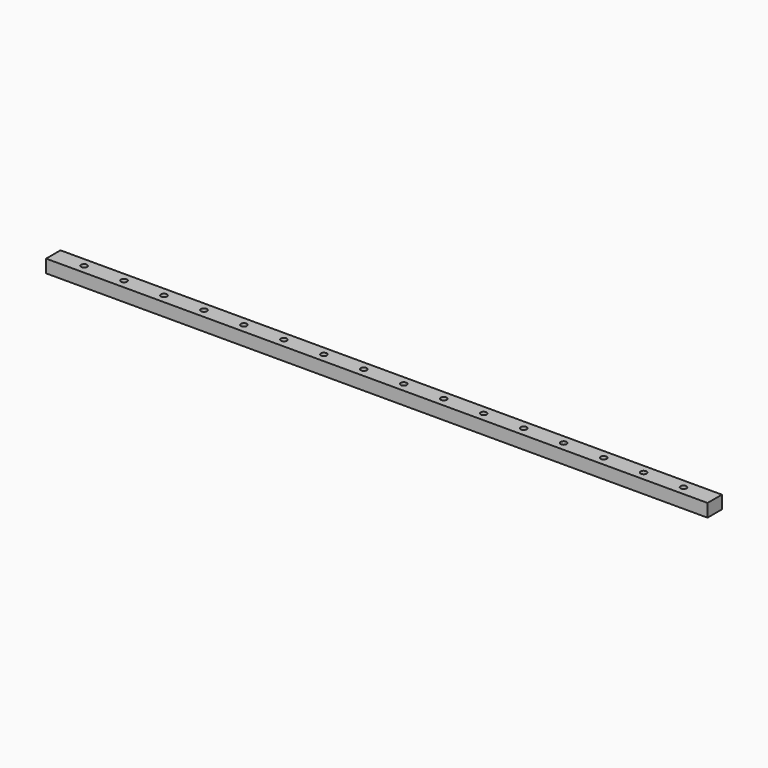
from build123d import *

# Parameters (mm, degrees)
SKETCH_W            = 331
SKETCH_H            = 9
PAD_DEPTH           = 6.5
SKETCH001_R         = 1.5
POCKET_DEPTH        = 6.501
LINEARPATTERN_COUNT = 16
LINEARPATTERN_PITCH = 20


with BuildPart() as part:
    # Sketch → Pad (new body)
    with BuildSketch(Plane.XY):
        with Locations((165.5, 4.5)):
            Rectangle(SKETCH_W, SKETCH_H)
    extrude(amount=PAD_DEPTH)

    # Sketch001 (on Face6 of Pad) → Pocket (cut, through all)
    with BuildSketch(Plane.XY.offset(6.5)):
        with Locations((15.4, 4.5)):
            Circle(SKETCH001_R)
    pocket = extrude(amount=-POCKET_DEPTH, mode=Mode.SUBTRACT)

    # LinearPattern: Pocket ×16
    with Locations(*[(i * LINEARPATTERN_PITCH, 0, 0) for i in range(1, LINEARPATTERN_COUNT)]):
        add(pocket, mode=Mode.SUBTRACT)


solid = part.part
